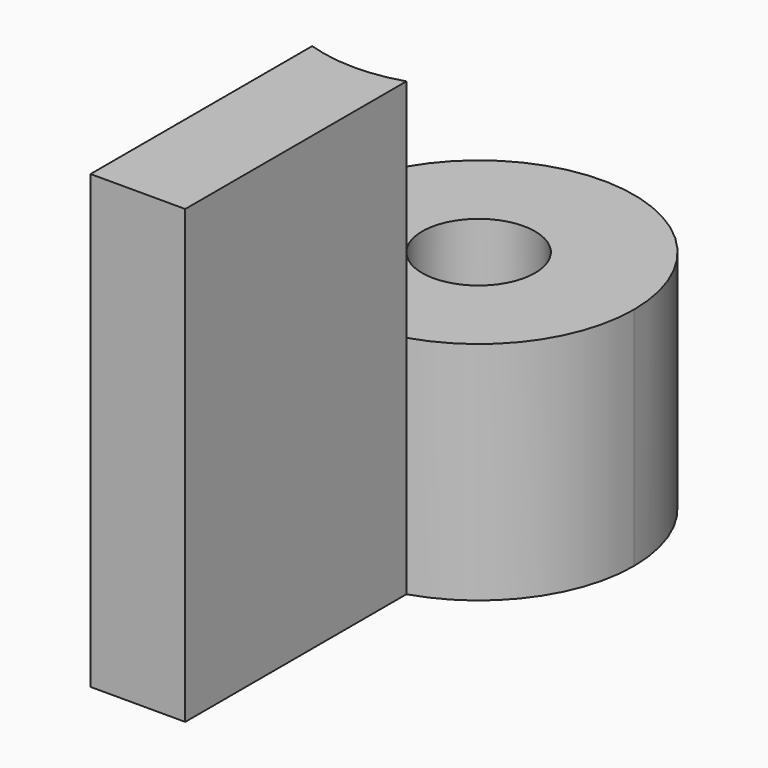
from build123d import *

# Parameters (mm, degrees)
F1_DEPTH = 50
F2_DEPTH = 100
F3_R     = 12.5
F4_DEPTH = 100


with BuildPart() as f1:
    # F0 (on Top) → F1 (new body)
    with BuildSketch(Plane.XY):
        with BuildLine():
            ThreePointArc((-27.848724, 0), (-10.399488, 12.464069), (-3.718301, 32.840295))
            ThreePointArc((-3.718301, 32.840295), (-58.332346, 60.698612), (-48.823562, 0.131601))
            ThreePointArc((-48.823562, 0.131601), (-38.346414, -1.571236), (-27.848724, 0))
        make_face()
    extrude(amount=F1_DEPTH)

    # F0 (on Top) → F2 (join)
    with BuildSketch(Plane.XY):
        with BuildLine():
            ThreePointArc((-27.848724, 0), (-38.346414, -1.571236), (-48.823562, 0.131601))
            Line((-48.823562, 0.131601), (-48.823562, -61.224833))
            Line((-48.823562, -61.224833), (-27.848724, -61.224833))
            Line((-27.848724, -61.224833), (-27.848724, 0))
        make_face()
    extrude(amount=F2_DEPTH)

    # F3 (on face) → F4 (cut)
    with BuildSketch(Plane.XY.offset(50)):
        with Locations((-38.130508, 32.840295)):
            Circle(F3_R)
    extrude(amount=-F4_DEPTH, mode=Mode.SUBTRACT)


solid = f1.part
